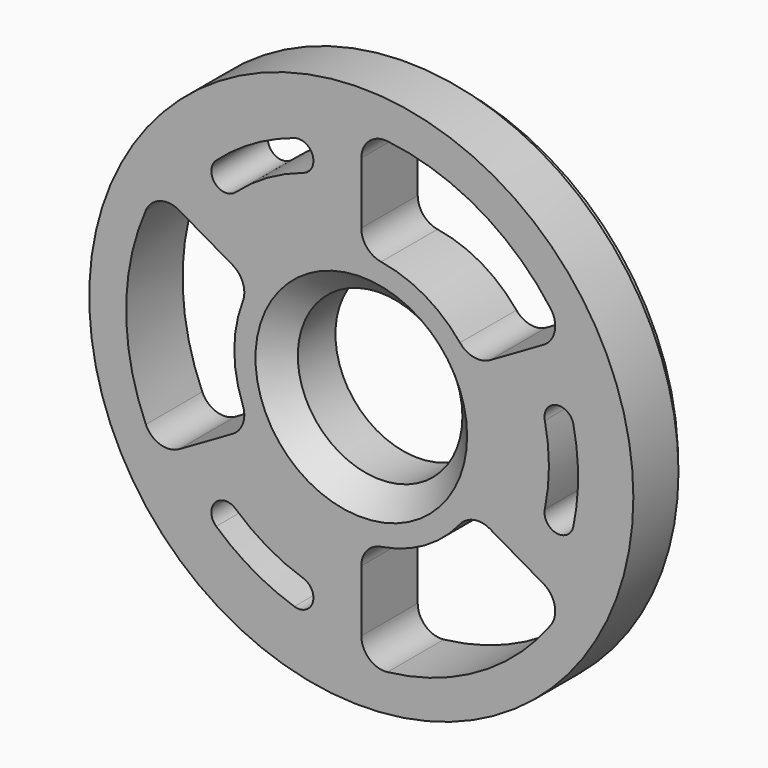
from build123d import *

# Parameters (mm, degrees)
F0_R     = 57.85
F0_R_2   = 17.5
F1_DEPTH = 15
F2_R     = 57.85
F2_R_2   = 55.35
F3_DEPTH = 3
F4_SIZE  = 5


with BuildPart() as f1:
    # F0 (on Front) → F1 (new body)
    with BuildSketch(Plane.XZ):
        Circle(F0_R)
        with BuildLine():
            ThreePointArc((-12.320414, -37.950196), (-10.329128, -41.855933), (-14.234864, -43.847219))
            ThreePointArc((-14.234864, -43.847219), (-23.05, -39.923771), (-30.855373, -34.251364))
            ThreePointArc((-30.855373, -34.251364), (-31.083737, -29.873254), (-26.705627, -29.64489))
            ThreePointArc((-26.705627, -29.64489), (-19.95, -34.554414), (-12.320414, -37.950196))
        make_face(mode=Mode.SUBTRACT)
        with BuildLine():
            ThreePointArc((-27.372431, 15.803481), (-25.159068, 13.141948), (-25.204864, 9.680642))
            ThreePointArc((-25.204864, 9.680642), (-27, 0), (-25.204864, -9.680642))
            ThreePointArc((-25.204864, -9.680642), (-25.159068, -13.141948), (-27.372431, -15.803481))
            Line((-27.372431, -15.803481), (-38.729833, -22.36068))
            ThreePointArc((-38.729833, -22.36068), (-42.790653, -22.780694), (-45.810926, -20.033948))
            ThreePointArc((-45.810926, -20.033948), (-50, 0), (-45.810926, 20.033948))
            ThreePointArc((-45.810926, 20.033948), (-42.790653, 22.780694), (-38.729833, 22.36068))
            Line((-38.729833, 22.36068), (-27.372431, 15.803481))
        make_face(mode=Mode.SUBTRACT)
        Circle(F0_R_2, mode=Mode.SUBTRACT)
        with BuildLine():
            Line((0, -44.72136), (0, -31.606961))
            ThreePointArc((0, -31.606961), (1.198273, -28.359366), (4.21875, -26.668374))
            ThreePointArc((4.21875, -26.668374), (13.5, -23.382686), (20.986114, -16.987731))
            ThreePointArc((20.986114, -16.987731), (23.960795, -15.217418), (27.372431, -15.803481))
            Line((27.372431, -15.803481), (38.729833, -22.36068))
            ThreePointArc((38.729833, -22.36068), (41.123986, -25.667445), (40.255371, -29.656452))
            ThreePointArc((40.255371, -29.656452), (25, -43.30127), (5.555556, -49.690399))
            ThreePointArc((5.555556, -49.690399), (1.666667, -48.44814), (0, -44.72136))
        make_face(mode=Mode.SUBTRACT)
        with BuildLine():
            ThreePointArc((45.090238, 9.595855), (46.1, 0), (45.090238, -9.595855))
            ThreePointArc((45.090238, -9.595855), (41.412865, -11.982679), (39.026041, -8.305306))
            ThreePointArc((39.026041, -8.305306), (39.9, 0), (39.026041, 8.305306))
            ThreePointArc((39.026041, 8.305306), (41.412865, 11.982679), (45.090238, 9.595855))
        make_face(mode=Mode.SUBTRACT)
        with BuildLine():
            ThreePointArc((-30.855373, 34.251364), (-23.05, 39.923771), (-14.234864, 43.847219))
            ThreePointArc((-14.234864, 43.847219), (-10.329128, 41.855933), (-12.320414, 37.950196))
            ThreePointArc((-12.320414, 37.950196), (-19.95, 34.554414), (-26.705627, 29.64489))
            ThreePointArc((-26.705627, 29.64489), (-31.083737, 29.873254), (-30.855373, 34.251364))
        make_face(mode=Mode.SUBTRACT)
        with BuildLine():
            ThreePointArc((20.986114, 16.987731), (13.5, 23.382686), (4.21875, 26.668374))
            ThreePointArc((4.21875, 26.668374), (1.198273, 28.359366), (0, 31.606961))
            Line((0, 31.606961), (0, 44.72136))
            ThreePointArc((0, 44.72136), (1.666667, 48.44814), (5.555556, 49.690399))
            ThreePointArc((5.555556, 49.690399), (25, 43.30127), (40.255371, 29.656452))
            ThreePointArc((40.255371, 29.656452), (41.123986, 25.667445), (38.729833, 22.36068))
            Line((38.729833, 22.36068), (27.372431, 15.803481))
            ThreePointArc((27.372431, 15.803481), (23.960795, 15.217418), (20.986114, 16.987731))
        make_face(mode=Mode.SUBTRACT)
    extrude(amount=F1_DEPTH)

    # F2 (on face) → F3 (cut)
    with BuildSketch(Plane(origin=(0, 0, 0), x_dir=(-1, 0, 0), z_dir=(0, 1, 0))):
        Circle(F2_R)
        Circle(F2_R_2, mode=Mode.SUBTRACT)
    extrude(amount=-F3_DEPTH, mode=Mode.SUBTRACT)

    # F4
    f4_edges = [f1.edges().sort_by_distance(p)[0] for p in [
        (-17.5, -15, 0),
    ]]
    chamfer(f4_edges, length=F4_SIZE)


solid = f1.part
